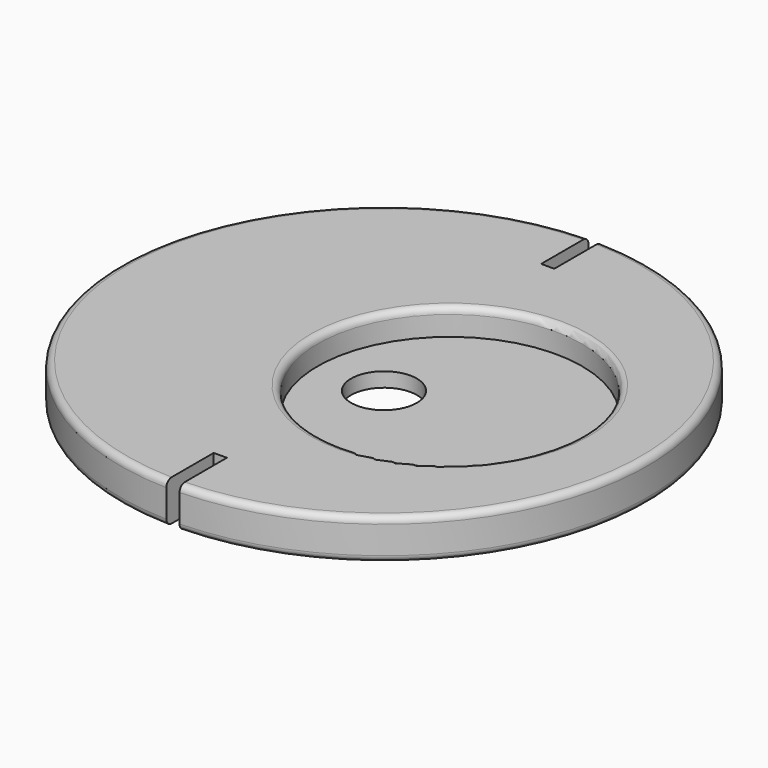
from build123d import *

# Parameters (mm, degrees)
F0_R     = 20.05
F1_DEPTH = 3.1
F2_R     = 10.05
F3_DEPTH = 2
F4_R     = 0.5
F5_R     = 2.5
F6_DEPTH = 3.1010001
F7_W     = 1
F7_H     = 5
F8_DEPTH = 3.1010001


with BuildPart() as f1:
    # F0 (on Top) → F1 (new body)
    with BuildSketch(Plane.XY):
        Circle(F0_R)
    extrude(amount=F1_DEPTH)

    # F2 (on face) → F3 (cut)
    with BuildSketch(Plane.XY.offset(3.1)):
        with Locations((5, 0)):
            Circle(F2_R)
    extrude(amount=-F3_DEPTH, mode=Mode.SUBTRACT)

    # F4
    f4_edges = [f1.edges().sort_by_distance(p)[0] for p in [
        (-20.05, 0, 3.1),
        (-5.05, 0, 3.1),
        (-20.05, 0, 0),
    ]]
    fillet(f4_edges, radius=F4_R)

    # F5 (on face) → F6 (cut, through all)
    with BuildSketch(Plane(origin=(0, 0, 0), x_dir=(1, 0, 0), z_dir=(0, 0, -1))):
        Circle(F5_R)
    extrude(amount=-F6_DEPTH, mode=Mode.SUBTRACT)

    # F7 (on face) → F8 (cut, through all)
    with BuildSketch(Plane.XY.offset(3.1)):
        with Locations((0, 18.05)):
            Rectangle(F7_W, F7_H)
        with Locations((0, -18.05)):
            Rectangle(F7_W, F7_H)
    extrude(amount=-F8_DEPTH, mode=Mode.SUBTRACT)


solid = f1.part
